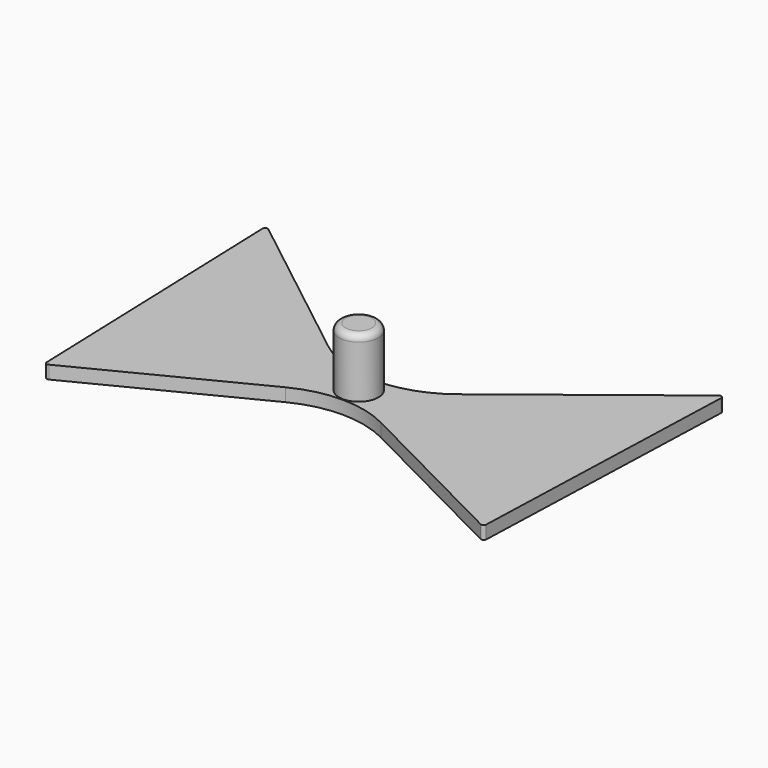
from build123d import *

# Parameters (mm, degrees)
F3_DEPTH = 1
F4_R     = 1.5
F5_DEPTH = 4.5
F6_R     = 0.5


with BuildPart() as f3:
    # F2 (on Top) → F3 (new body)
    with BuildSketch(Plane.XY):
        with BuildLine():
            Line((17.1622320903, 13.4306918032), (4.9303248829, 3.8583369368))
            ThreePointArc((4.9303248829, 3.8583369368), (0, 2.1584874548), (-4.9303248829, 3.8583369368))
            Line((-4.9303248829, 3.8583369368), (-17.1622320903, 13.4306918032))
            ThreePointArc((-17.1622320903, 13.4306918032), (-17.376145966, 13.4514618026), (-17.4853738885, 13.2663677724))
            Line((-17.4853738885, 13.2663677724), (-16.7529162453, -8.1999925091))
            ThreePointArc((-16.7529162453, -8.1999925091), (-16.6546778346, -8.3654169511), (-16.4623768157, -8.3714460037))
            Line((-16.4623768157, -8.3714460037), (-3.6262301421, -1.8440101433))
            ThreePointArc((-3.6262301421, -1.8440101433), (0, -0.9749606379), (3.6262301421, -1.8440101433))
            Line((3.6262301421, -1.8440101433), (16.4623768157, -8.3714460037))
            ThreePointArc((16.4623768157, -8.3714460037), (16.6546778346, -8.3654169511), (16.7529162453, -8.1999925091))
            Line((16.7529162453, -8.1999925091), (17.4853738885, 13.2663677724))
            ThreePointArc((17.4853738885, 13.2663677724), (17.376145966, 13.4514618026), (17.1622320903, 13.4306918032))
        make_face()
    extrude(amount=F3_DEPTH)

    # F4 (on face) → F5 (join)
    with BuildSketch(Plane.XY.offset(1)):
        with Locations((0, 0.5917634084)):
            Circle(F4_R)
    extrude(amount=F5_DEPTH)

    # F6
    f6_edges = [f3.edges().sort_by_distance(p)[0] for p in [
        (-1.5, 0.591763, 5.5),
    ]]
    fillet(f6_edges, radius=F6_R)


solid = f3.part
